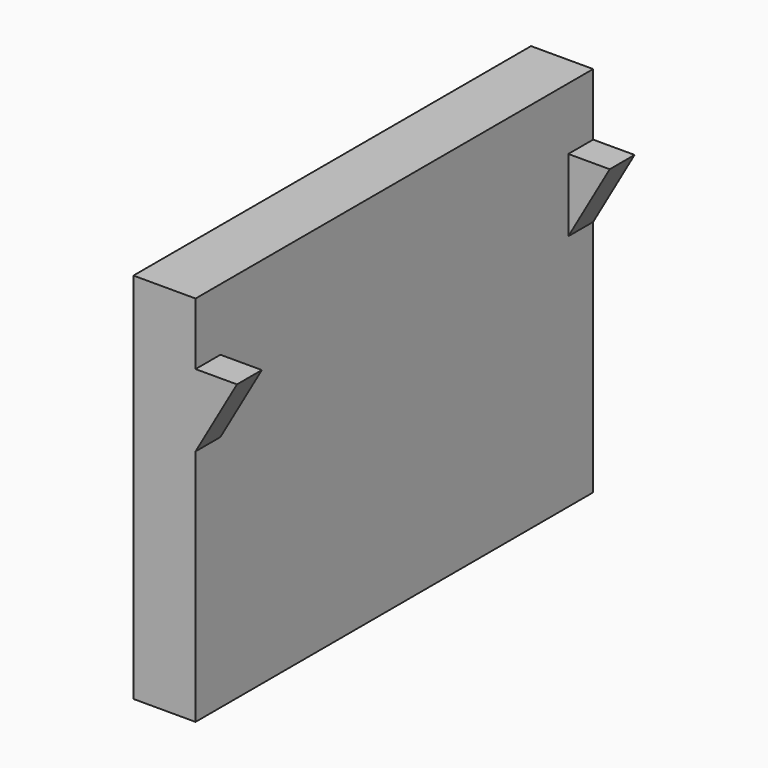
from build123d import *

# Parameters (mm, degrees)
SKETCH010_W       = 6
SKETCH010_H       = 48
PAD004_DEPTH      = 6
PAD004_DEPTH_BACK = 30
PAD005_DEPTH      = 3


with BuildPart() as part:
    # Sketch010 (on Face1 of Binder007) → Pad004 (new body, two sides)
    with BuildSketch(Plane.XY) as pad004_sk:
        with Locations((-24, 0)):
            Rectangle(SKETCH010_W, SKETCH010_H)
    extrude(amount=PAD004_DEPTH)
    extrude(pad004_sk.sketch, amount=-PAD004_DEPTH_BACK)

    # Sketch011 (on Face3 of Pad004) → Pad005 (join)
    with BuildSketch(Plane.XZ.offset(24)):
        Polygon((-21, 0), (-21, -7), (-17, 0), align=None)
    pad005 = extrude(amount=-PAD005_DEPTH)

    # Mirrored001: Pad005 across XZ
    add(pad005.mirror(Plane.XZ))


solid = part.part
